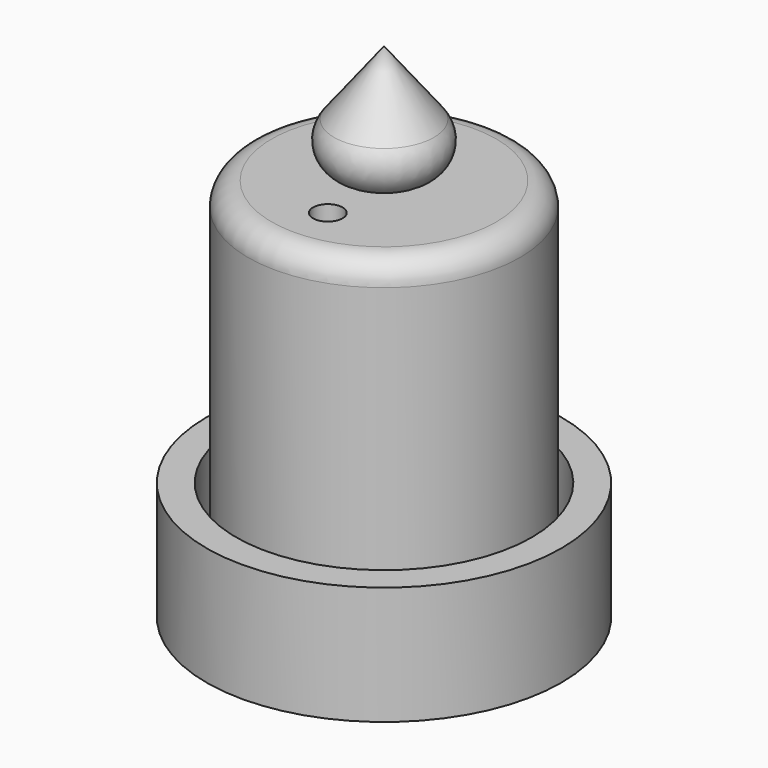
from build123d import *

# Parameters (mm, degrees)
F0_R      = 31.75
F1_DEPTH  = 6.35
F0_R_2    = 38.1
F2_DEPTH  = 25.4
F3_R      = 29.21
F4_DEPTH  = 76.2
F7_R      = 5.08
F9_R      = 7.5183379437
F10_DEPTH = 76.2
F11_D     = 6.35
F11_DEPTH = 12.7
F11_TIP   = 1.9077324654


with BuildPart() as f1:
    # F0 (on Top) → F1 (new body)
    with BuildSketch(Plane.XY):
        Circle(F0_R)
    extrude(amount=F1_DEPTH)

    # F0 (on Top) → F2 (join)
    with BuildSketch(Plane.XY):
        Circle(F0_R_2)
        Circle(F0_R, mode=Mode.SUBTRACT)
    extrude(amount=F2_DEPTH)


with BuildPart() as f4:
    # F3 (on face) → F4 (new body)
    with BuildSketch(Plane.XY.offset(6.35)):
        Circle(F3_R)
    extrude(amount=F4_DEPTH)

    # F7
    f7_edges = [f4.edges().sort_by_distance(p)[0] for p in [
        (-29.21, 0, 82.55),
    ]]
    fillet(f7_edges, radius=F7_R)

    # F9 (on Front) → F10 (cut)
    with BuildSketch(Plane.XZ):
        with Locations((0, 60.9209239483)):
            Circle(F9_R)
    extrude(amount=-F10_DEPTH, mode=Mode.SUBTRACT)

    # F11
    with Locations(Plane.XY.offset(82.55)):
        with Locations((0, -15.0793576613)):
            Hole(F11_D / 2, depth=F11_DEPTH)
            with Locations((0, 0, -(F11_DEPTH + F11_TIP / 2))):  # 118° drill point
                Cone(0, F11_D / 2, F11_TIP, mode=Mode.SUBTRACT)


with BuildPart() as f6:
    # F5 (on Right) → F6 (revolve)
    with BuildSketch(Plane.YZ):
        with BuildLine():
            Line((0, 107.95), (0, 82.55))
            Line((0, 82.55), (7.0394309357, 84.0592574321))
            ThreePointArc((7.0394309357, 84.0592574321), (11.6748466424, 88.0951164777), (10.7205795649, 94.1667399307))
            Line((10.7205795649, 94.1667399307), (0, 107.95))
        make_face()
    revolve(axis=Axis((0, 0, 95.25), (0, 0, 1)))


solid = Compound([f1.part, f4.part, f6.part])
